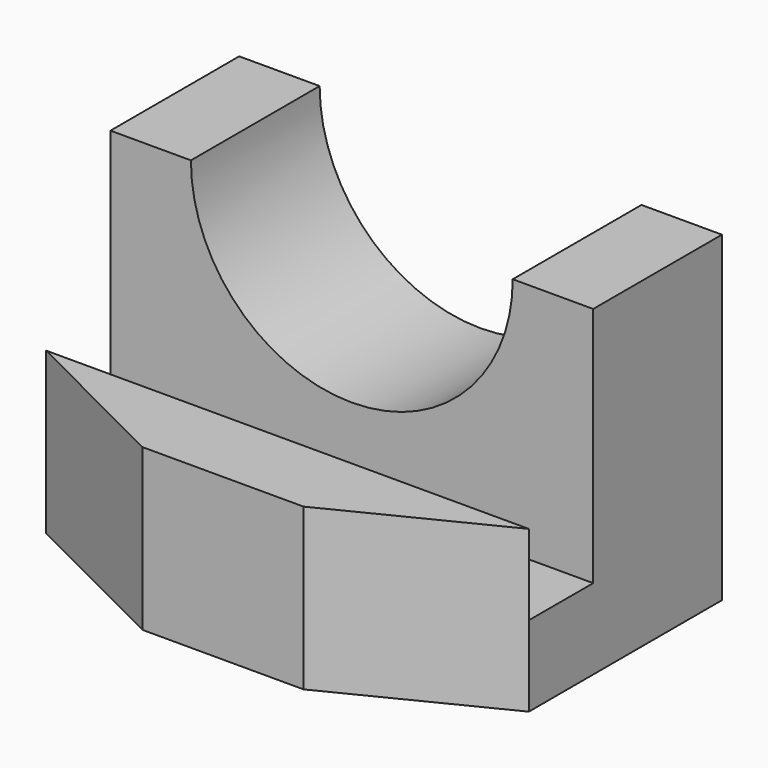
from build123d import *

# Parameters (mm, degrees)
F1_DEPTH = 20
F2_W     = 60
F2_H     = 10
F3_DEPTH = 10
F5_DEPTH = 20


with BuildPart() as f1:
    # F0 (on Front) → F1 (new body)
    with BuildSketch(Plane.XZ):
        with BuildLine():
            Line((-60, 0), (0, 0))
            Line((0, 0), (0, 40))
            Line((0, 40), (-10, 40))
            ThreePointArc((-10, 40), (-30, 20), (-50, 40))
            Line((-50, 40), (-60, 40))
            Line((-60, 40), (-60, 0))
        make_face()
    extrude(amount=-F1_DEPTH)

    # F2 (on face) → F3 (join)
    with BuildSketch(Plane.XZ):
        with Locations((-30, 5)):
            Rectangle(F2_W, F2_H)
    extrude(amount=F3_DEPTH)

    # F4 (on face) → F5 (join)
    with BuildSketch(Plane(origin=(0, 0, 0), x_dir=(1, 0, 0), z_dir=(0, 0, -1))):
        Polygon((-40, 20), (-60, 10), (0, 10), (-20, 20), align=None)
    extrude(amount=-F5_DEPTH)


solid = f1.part
